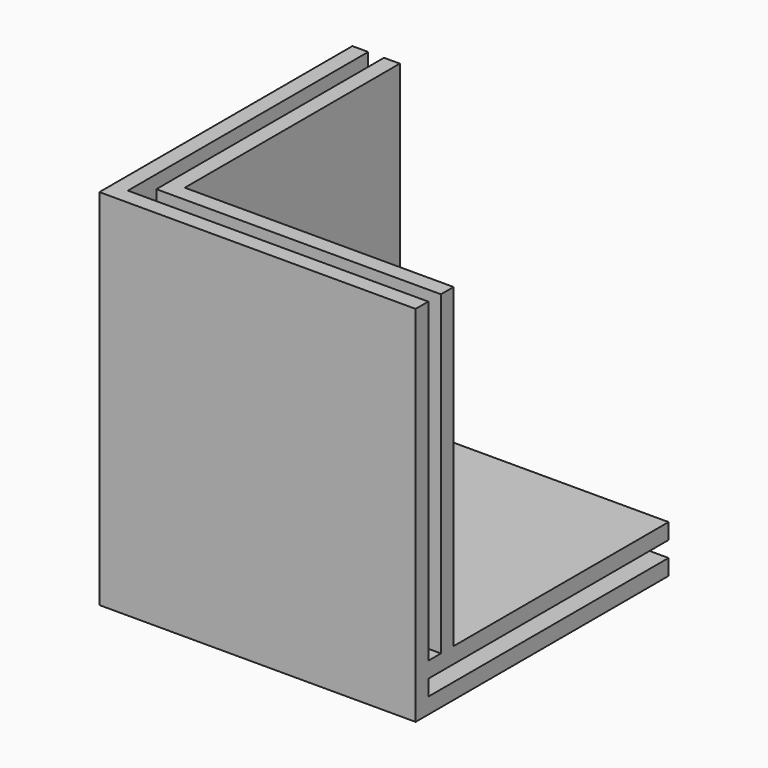
from build123d import *

# Parameters (mm, degrees)
F0_W     = 42.5
F0_H     = 42.5
F0_W_2   = 2.5
F0_H_2   = 2.5
F1_DEPTH = 2.5
F2_DEPTH = 50
F3_W     = 2.5
F3_H     = 47.5
F3_W_2   = 47.5
F3_H_2   = 2.5
F4_DEPTH = 2.5
F5_W     = 47.5
F5_H     = 47.5
F6_DEPTH = 2.5


with BuildPart() as f1:
    # F0 (on Top) → F1 (new body)
    with BuildSketch(Plane.XY):
        with Locations((7.0520306379, 8.3629446477)):
            Rectangle(F0_W, F0_H)
        with Locations((-15.4479693621, 8.3629446477)):
            Rectangle(F0_W_2, F0_H)
        with Locations((-17.9479693621, 8.3629446477)):
            Rectangle(F0_W_2, F0_H)
        with Locations((-20.4479693621, 8.3629446477)):
            Rectangle(F0_W_2, F0_H)
        with Locations((7.0520306379, -14.1370553523)):
            Rectangle(F0_W, F0_H_2)
        with Locations((7.0520306379, -16.6370553523)):
            Rectangle(F0_W, F0_H_2)
        with Locations((7.0520306379, -19.1370553523)):
            Rectangle(F0_W, F0_H_2)
        with Locations((-15.4479693621, -19.1370553523)):
            Rectangle(F0_W_2, F0_H_2)
        with Locations((-17.9479693621, -19.1370553523)):
            Rectangle(F0_W_2, F0_H_2)
        with Locations((-20.4479693621, -19.1370553523)):
            Rectangle(F0_W_2, F0_H_2)
        with Locations((-20.4479693621, -16.6370553523)):
            Rectangle(F0_W_2, F0_H_2)
        with Locations((-17.9479693621, -16.6370553523)):
            Rectangle(F0_W_2, F0_H_2)
        with Locations((-15.4479693621, -16.6370553523)):
            Rectangle(F0_W_2, F0_H_2)
        with Locations((-15.4479693621, -14.1370553523)):
            Rectangle(F0_W_2, F0_H_2)
        with Locations((-17.9479693621, -14.1370553523)):
            Rectangle(F0_W_2, F0_H_2)
        with Locations((-20.4479693621, -14.1370553523)):
            Rectangle(F0_W_2, F0_H_2)
    extrude(amount=-F1_DEPTH)

    # F0 (on Top) → F2 (join)
    with BuildSketch(Plane.XY):
        with Locations((-20.4479693621, 8.3629446477)):
            Rectangle(F0_W_2, F0_H)
        with Locations((-20.4479693621, -14.1370553523)):
            Rectangle(F0_W_2, F0_H_2)
        with Locations((-15.4479693621, 8.3629446477)):
            Rectangle(F0_W_2, F0_H)
        with Locations((-15.4479693621, -14.1370553523)):
            Rectangle(F0_W_2, F0_H_2)
        with Locations((-15.4479693621, -19.1370553523)):
            Rectangle(F0_W_2, F0_H_2)
        with Locations((7.0520306379, -14.1370553523)):
            Rectangle(F0_W, F0_H_2)
        with Locations((-17.9479693621, -19.1370553523)):
            Rectangle(F0_W_2, F0_H_2)
        with Locations((-20.4479693621, -19.1370553523)):
            Rectangle(F0_W_2, F0_H_2)
        with Locations((7.0520306379, -19.1370553523)):
            Rectangle(F0_W, F0_H_2)
        with Locations((-20.4479693621, -16.6370553523)):
            Rectangle(F0_W_2, F0_H_2)
    extrude(amount=F2_DEPTH)

    # F3 (on face) → F4 (join)
    with BuildSketch(Plane(origin=(0, 0, -2.5), x_dir=(1, 0, 0), z_dir=(0, 0, -1))):
        with Locations((-20.4479693621, -5.8629446477)):
            Rectangle(F3_W, F3_H)
        with Locations((4.5520306379, 19.1370553523)):
            Rectangle(F3_W_2, F3_H_2)
        with Locations((-20.4479693621, 19.1370553523)):
            Rectangle(F3_W, F3_H_2)
    extrude(amount=F4_DEPTH)

    # F5 (on face) → F6 (join)
    with BuildSketch(Plane(origin=(0, 0, -5), x_dir=(1, 0, 0), z_dir=(0, 0, -1))):
        with Locations((4.5520306379, -5.8629446477)):
            Rectangle(F5_W, F5_H)
        Polygon((28.3020306379, 20.3870553523), (-21.6979693621, 20.3870553523), (-21.6979693621, -29.6129446477), (-19.1979693621, -29.6129446477), (-19.1979693621, 17.8870553523), (28.3020306379, 17.8870553523), align=None)
    extrude(amount=F6_DEPTH)


solid = f1.part
